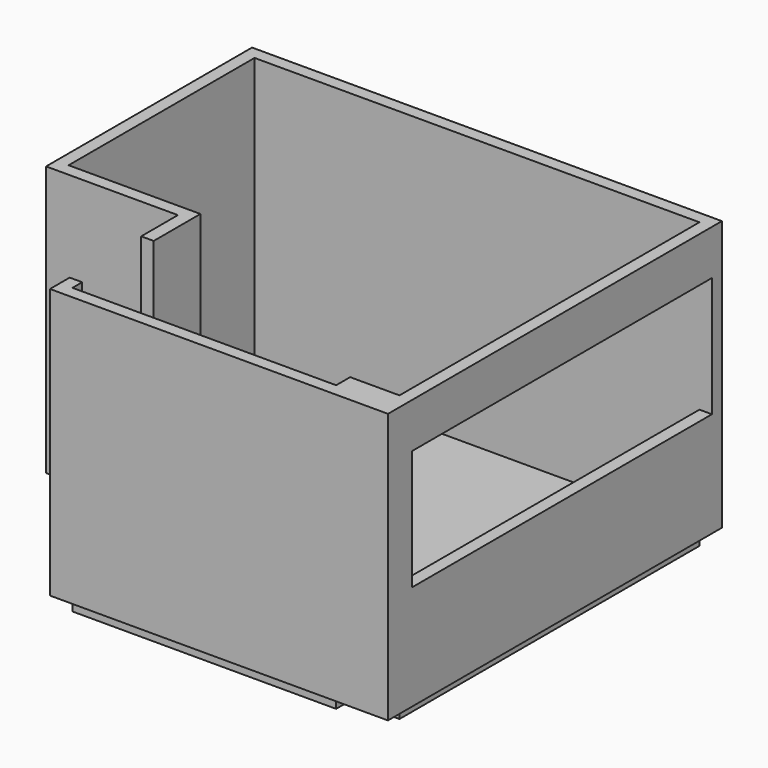
from build123d import *

# Parameters (mm, degrees)
F1_DEPTH = 2743.2
F2_W     = 3810
F2_H     = 1219.2
F3_DEPTH = 127
F0_W     = 127
F0_H     = 908.05
F4_DEPTH = 152.4


with BuildPart() as f1:
    # F0 (on Top) → F1 (new body)
    with BuildSketch(Plane.XY):
        Polygon((4019.55, 307.420327), (1339.85, 307.420327), (1339.85, 431.245327), (1212.85, 431.245327), (1212.85, 180.420327), (4648.2, 180.420327), (4648.2, 4422.220327), (-127, 4422.220327), (-127, 1806.020327), (1212.85, 1806.020327), (1212.85, 1339.295327), (1339.85, 1339.295327), (1339.85, 1933.020327), (0, 1933.020327), (0, 4295.220327), (4521.2, 4295.220327), (4521.2, 485.220327), (4019.55, 485.220327), align=None)
    extrude(amount=F1_DEPTH)

    # F2 (on face) → F3 (cut, through all)
    with BuildSketch(Plane(origin=(4521.2, 0, 0), x_dir=(0, -1, 0), z_dir=(-1, 0, 0))):
        with Locations((-2390.220327, 1676.4)):
            Rectangle(F2_W, F2_H)
    extrude(amount=-F3_DEPTH, mode=Mode.SUBTRACT)

    # F0 (on Top) → F4 (join)
    with BuildSketch(Plane.XY):
        Polygon((1339.85, 431.245327), (1339.85, 307.420327), (4019.55, 307.420327), (4019.55, 485.220327), (4521.2, 485.220327), (4521.2, 4295.220327), (0, 4295.220327), (0, 1933.020327), (1339.85, 1933.020327), (1339.85, 1339.295327), align=None)
        with Locations((1276.35, 885.270327)):
            Rectangle(F0_W, F0_H)
    extrude(amount=-F4_DEPTH)


solid = f1.part
